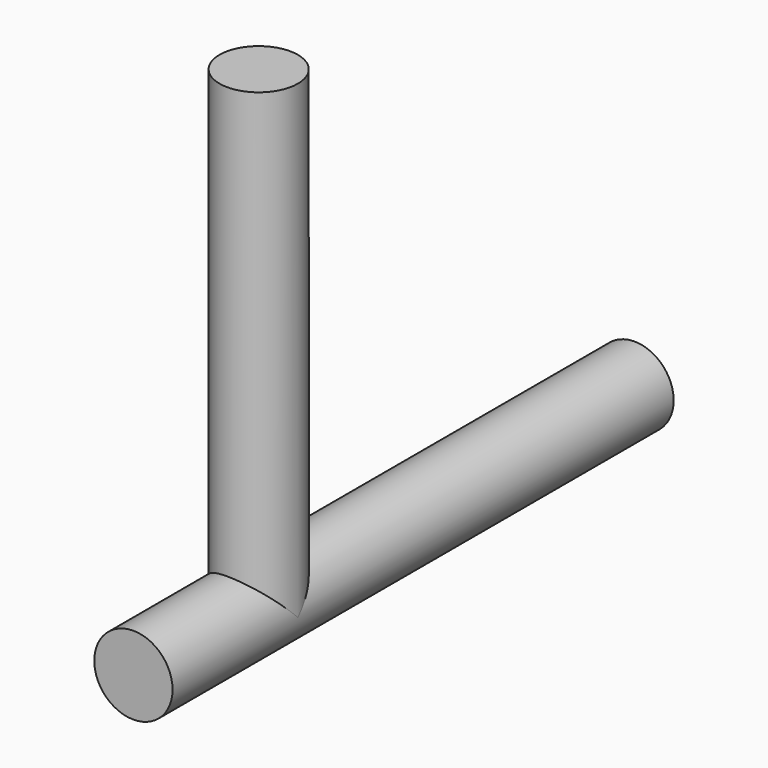
from build123d import *

# Parameters (mm, degrees)
F0_R          = 6.35
F1_DEPTH      = 76.2
F2_R          = 6.35
F3_DEPTH      = 76.2
F3_DEPTH_BACK = 25.4


with BuildPart() as f1:
    # F0 (on Top) → F1 (new body)
    with BuildSketch(Plane.XY):
        Circle(F0_R)
    extrude(amount=F1_DEPTH)

    # F2 (on Front) → F3 (join, two sides)
    with BuildSketch(Plane.XZ) as f3_sk:
        Circle(F2_R)
    extrude(amount=-F3_DEPTH)
    extrude(f3_sk.sketch, amount=F3_DEPTH_BACK)


solid = f1.part
